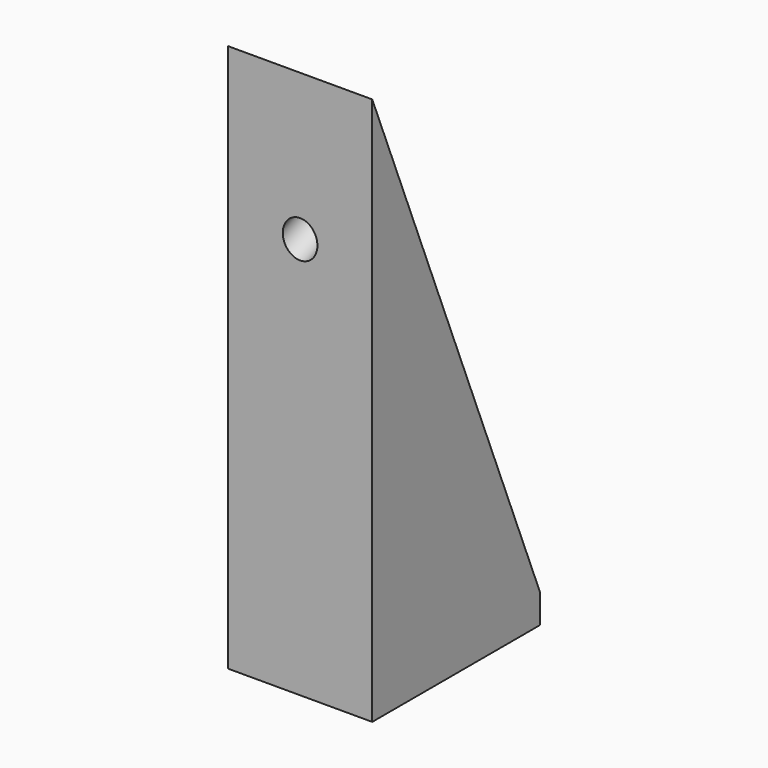
from build123d import *

# Parameters (mm, degrees)
F1_DEPTH = 25
F2_W     = 25
F2_H     = 36.3502395384
F3_DEPTH = 5
F4_R     = 3
F5_DEPTH = 12


with BuildPart() as f1:
    # F0 (on Right) → F1 (new body)
    with BuildSketch(Plane.YZ):
        Polygon((0, 89.97), (0, 0), (36.3502395384, 0), align=None)
    extrude(amount=F1_DEPTH)

    # F2 (on face) → F3 (join)
    with BuildSketch(Plane(origin=(0, 0, 0), x_dir=(1, 0, 0), z_dir=(0, 0, -1))):
        with Locations((12.5, -18.1751197692)):
            Rectangle(F2_W, F2_H)
    extrude(amount=F3_DEPTH)

    # F4 (on face) → F5 (cut)
    with BuildSketch(Plane(origin=(0, 31.2492067951, 12.6254990818), x_dir=(-1, 0, 0), z_dir=(0, 0.9271838546, 0.3746065934))):
        with Locations((-12.5, 34.900845996)):
            Circle(F4_R)
        with Locations((-12.5, 59.8668195307)):
            Circle(F4_R)
        with Locations((-12.5, 9.9348724613)):
            Circle(F4_R)
    extrude(amount=-F5_DEPTH, mode=Mode.SUBTRACT)


solid = f1.part
